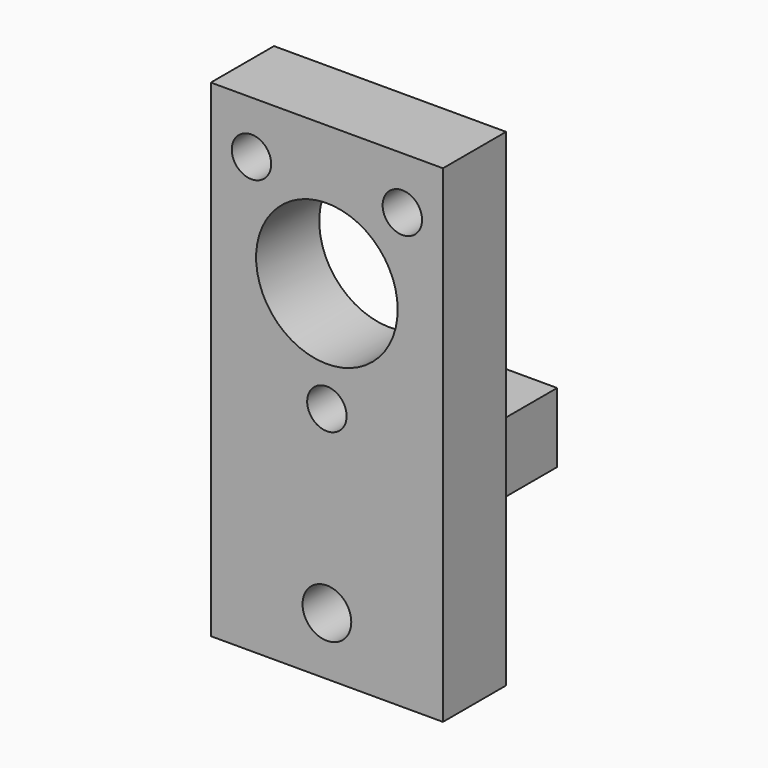
from build123d import *

# Parameters (mm, degrees)
F0_R      = 1.7
F0_R_2    = 2.1
F0_R_3    = 6.1
F0_W      = 0.8
F0_H      = 6
F1_DEPTH  = 18
F2_W      = 6
F2_H      = 10
F3_DEPTH  = 20.001
F4_DEPTH  = 5.2
F5_W      = 37.3805030249
F5_H      = 33.9431622997
F6_DEPTH  = 6
F7_DEPTH  = 6
F8_W      = 20
F8_H      = 6.8
F9_DEPTH  = 16
F10_DEPTH = 18.001


with BuildPart() as f1:
    # F0 (on Front) → F1 (new body)
    with BuildSketch(Plane.XZ):
        Polygon((1.2868126808, 42), (1.2868126808, 31.58263134), (1.2868126808, 16), (6.4868126808, 16), (7.2868126808, 16), (7.2868126808, 10), (7.2868126808, 0), (15.2868126808, 0), (15.2868126808, 10), (15.2868126808, 16), (16.0868126808, 16), (21.2868126808, 16), (21.2868126808, 31.58263134), (21.2868126808, 42), align=None)
        with Locations((11.2868126808, 20.5)):
            Circle(F0_R, mode=Mode.SUBTRACT)
        with Locations((11.2868126808, 5)):
            Circle(F0_R_2, mode=Mode.SUBTRACT)
        with Locations((11.2868126808, 30)):
            Circle(F0_R_3, mode=Mode.SUBTRACT)
        with Locations((4.7868126808, 37.5)):
            Circle(F0_R, mode=Mode.SUBTRACT)
        with Locations((17.7868126808, 37.5)):
            Circle(F0_R, mode=Mode.SUBTRACT)
        with Locations((6.8868126808, 13)):
            Rectangle(F0_W, F0_H)
        with Locations((15.6868126808, 13)):
            Rectangle(F0_W, F0_H)
        Polygon((1.2868126808, 42), (1.2868126808, 31.58263134), (1.2868126808, 16), (6.4868126808, 16), (7.2868126808, 16), (7.2868126808, 10), (7.2868126808, 0), (15.2868126808, 0), (15.2868126808, 10), (15.2868126808, 16), (16.0868126808, 16), (21.2868126808, 16), (21.2868126808, 31.58263134), (21.2868126808, 42), align=None)
        with Locations((11.2868126808, 20.5)):
            Circle(F0_R, mode=Mode.SUBTRACT)
        with Locations((11.2868126808, 5)):
            Circle(F0_R_2, mode=Mode.SUBTRACT)
        with Locations((11.2868126808, 30)):
            Circle(F0_R_3, mode=Mode.SUBTRACT)
        with Locations((4.7868126808, 37.5)):
            Circle(F0_R, mode=Mode.SUBTRACT)
        with Locations((17.7868126808, 37.5)):
            Circle(F0_R, mode=Mode.SUBTRACT)
    extrude(amount=F1_DEPTH)

    # F2 (on face) → F3 (cut, through all)
    with BuildSketch(Plane.YZ.offset(21.2868126808)):
        with Locations((-3, 5)):
            Rectangle(F2_W, F2_H)
    extrude(amount=-F3_DEPTH, mode=Mode.SUBTRACT)

    # F4 (cut): a face of the model
    f4_faces = [f1.faces().sort_by_distance(p)[0] for p in [
        (20.9094534356, 0, 29),
    ]]
    extrude(f4_faces, amount=-F4_DEPTH, mode=Mode.SUBTRACT)

    # F5 (on face) → F6 (cut)
    with BuildSketch(Plane(origin=(0, -5.2, 0), x_dir=(-1, 0, 0), z_dir=(0, 1, 0))):
        with Locations((-12.0248973835, 32.9715811498)):
            Rectangle(F5_W, F5_H)
    extrude(amount=-F6_DEPTH, mode=Mode.SUBTRACT)

    # F7 (add): a face of the model
    f7_faces = [f1.faces().sort_by_distance(p)[0] for p in [
        (11.2868126808, -5.2, 13),
    ]]
    extrude(f7_faces, amount=F7_DEPTH)

    # F8 (on face) → F9 (join)
    with BuildSketch(Plane(origin=(0, 0, 16), x_dir=(1, 0, 0), z_dir=(0, 0, -1))):
        with Locations((11.2868126808, 14.6)):
            Rectangle(F8_W, F8_H)
    extrude(amount=F9_DEPTH)

    # F0 (on Front) → F10 (cut, through all)
    with BuildSketch(Plane.XZ):
        with Locations((11.2868126808, 5)):
            Circle(F0_R_2)
    extrude(amount=F10_DEPTH, mode=Mode.SUBTRACT)


solid = f1.part
